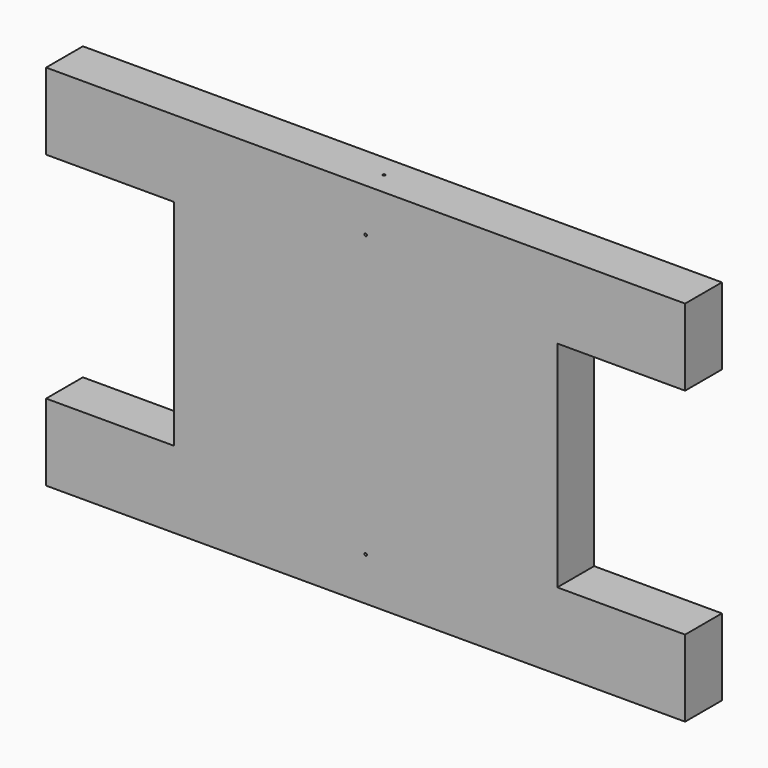
from build123d import *

# Parameters (mm, degrees)
F0_W     = 150
F0_H     = 144
F0_R     = 0.5
F1_DEPTH = 18
F2_R     = 0.5
F3_DEPTH = 1
F4_R     = 0.5
F5_DEPTH = 1
F6_W     = 18
F6_H     = 30
F7_DEPTH = 50
F8_W     = 18
F8_H     = 30
F9_DEPTH = 50


with BuildPart() as f1:
    # F0 (on Front) → F1 (new body)
    with BuildSketch(Plane.XZ):
        with Locations((75, 72)):
            Rectangle(F0_W, F0_H)
        with Locations((75, 17)):
            Circle(F0_R, mode=Mode.SUBTRACT)
        with Locations((75, 127)):
            Circle(F0_R, mode=Mode.SUBTRACT)
    extrude(amount=F1_DEPTH)

    # F2 (on face) → F3 (cut)
    with BuildSketch(Plane(origin=(0, 0, 0), x_dir=(1, 0, 0), z_dir=(0, 0, -1))):
        with Locations((75, 9)):
            Circle(F2_R)
    extrude(amount=-F3_DEPTH, mode=Mode.SUBTRACT)

    # F4 (on face) → F5 (cut)
    with BuildSketch(Plane.XY.offset(144)):
        with Locations((75, -9)):
            Circle(F4_R)
    extrude(amount=-F5_DEPTH, mode=Mode.SUBTRACT)

    # F6 (on face) → F7 (join)
    with BuildSketch(Plane(origin=(0, 0, 0), x_dir=(0, -1, 0), z_dir=(-1, 0, 0))):
        with Locations((9, 129)):
            Rectangle(F6_W, F6_H)
        with Locations((9, 15)):
            Rectangle(F6_W, F6_H)
    extrude(amount=F7_DEPTH)

    # F8 (on face) → F9 (join)
    with BuildSketch(Plane.YZ.offset(150)):
        with Locations((-9, 15)):
            Rectangle(F8_W, F8_H)
        with Locations((-9, 129)):
            Rectangle(F8_W, F8_H)
    extrude(amount=F9_DEPTH)


solid = f1.part
